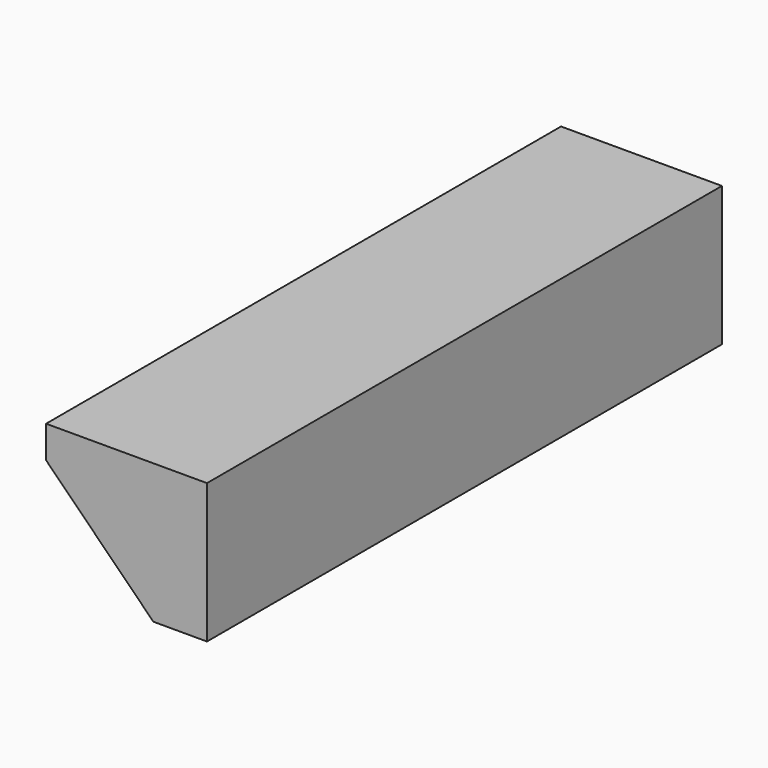
from build123d import *

# Parameters (mm, degrees)
F0_W     = 15.24
F0_H     = 3.302
F1_DEPTH = 3.81
F2_SIZE  = 2.54


with BuildPart() as f1:
    # F0 (on Right) → F1 (new body)
    with BuildSketch(Plane.YZ):
        Rectangle(F0_W, F0_H)
    extrude(amount=F1_DEPTH)

    # F2
    f2_edges = [f1.edges().sort_by_distance(p)[0] for p in [
        (0, 0, -1.651),
    ]]
    chamfer(f2_edges, length=F2_SIZE)


solid = f1.part
